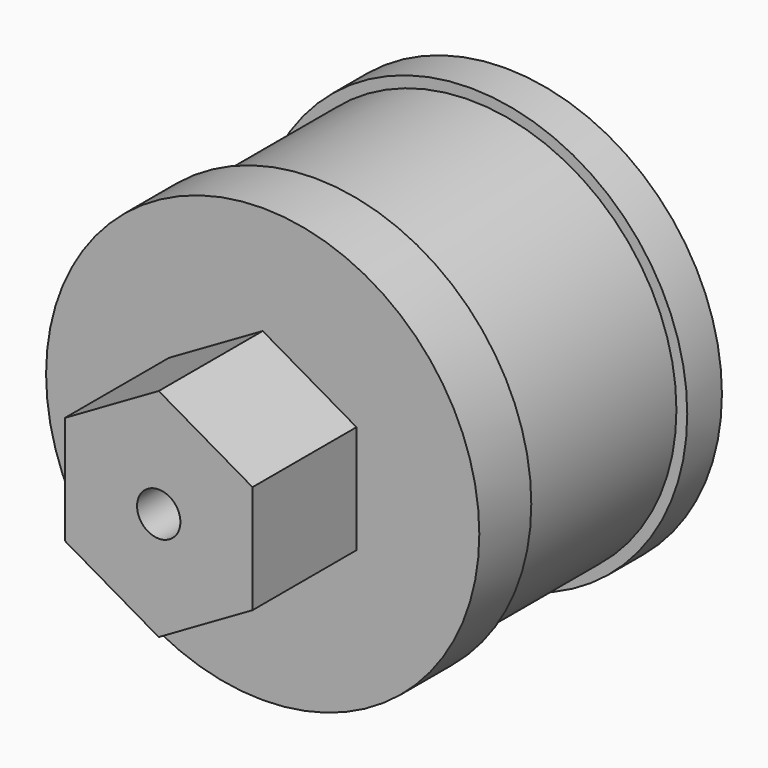
from build123d import *

# Parameters (mm, degrees)
F0_R     = 10
F0_R_2   = 9.5
F0_R_3   = 1
F1_DEPTH = 2
F2_DEPTH = 12
F3_R     = 10
F3_R_2   = 9.5
F3_R_3   = 1
F4_DEPTH = 2
F5_DEPTH = 8
F6_DEPTH = 20
F7_DEPTH = 1


with BuildPart() as f1:
    # F0 (on Front) → F1 (new body)
    with BuildSketch(Plane.XZ):
        Circle(F0_R)
        Circle(F0_R_2, mode=Mode.SUBTRACT)
        Circle(F0_R_2)
        with BuildLine():
            ThreePointArc((4.3301270189, 2.5), (4.8296291314, 1.2940952255), (5, 0))
            ThreePointArc((5, 0), (4.8296291314, -1.2940952255), (4.3301270189, -2.5))
            ThreePointArc((4.3301270189, -2.5), (2.5, -4.3301270189), (0, -5))
            ThreePointArc((0, -5), (-2.5, -4.3301270189), (-4.3301270189, -2.5))
            ThreePointArc((-4.3301270189, -2.5), (-5, 0), (-4.3301270189, 2.5))
            ThreePointArc((-4.3301270189, 2.5), (-2.5, 4.3301270189), (0, 5))
            ThreePointArc((0, 5), (2.5, 4.3301270189), (4.3301270189, 2.5))
        make_face(mode=Mode.SUBTRACT)
        with BuildLine():
            Line((0, 5), (4.3301270189, 2.5))
            ThreePointArc((4.3301270189, 2.5), (2.5, 4.3301270189), (0, 5))
        make_face()
        with BuildLine():
            Line((-4.3301270189, 2.5), (0, 5))
            ThreePointArc((0, 5), (-2.5, 4.3301270189), (-4.3301270189, 2.5))
        make_face()
        with BuildLine():
            Line((-4.3301270189, -2.5), (-4.3301270189, 2.5))
            ThreePointArc((-4.3301270189, 2.5), (-5, 0), (-4.3301270189, -2.5))
        make_face()
        with BuildLine():
            ThreePointArc((-4.3301270189, -2.5), (-2.5, -4.3301270189), (0, -5))
            Line((0, -5), (-4.3301270189, -2.5))
        make_face()
        with BuildLine():
            ThreePointArc((0, -5), (2.5, -4.3301270189), (4.3301270189, -2.5))
            Line((4.3301270189, -2.5), (0, -5))
        make_face()
        Polygon((4.3301270189, -2.5), (4.3301270189, 2.5), (0, 5), (-4.3301270189, 2.5), (-4.3301270189, -2.5), (0, -5), align=None)
        Circle(F0_R_3, mode=Mode.SUBTRACT)
        with BuildLine():
            ThreePointArc((4.3301270189, -2.5), (4.8296291314, -1.2940952255), (5, 0))
            ThreePointArc((5, 0), (4.8296291314, 1.2940952255), (4.3301270189, 2.5))
            Line((4.3301270189, 2.5), (4.3301270189, -2.5))
        make_face()
    extrude(amount=F1_DEPTH)

    # F0 (on Front) → F2 (join)
    with BuildSketch(Plane.XZ):
        Circle(F0_R_2)
        with BuildLine():
            ThreePointArc((4.3301270189, 2.5), (4.8296291314, 1.2940952255), (5, 0))
            ThreePointArc((5, 0), (4.8296291314, -1.2940952255), (4.3301270189, -2.5))
            ThreePointArc((4.3301270189, -2.5), (2.5, -4.3301270189), (0, -5))
            ThreePointArc((0, -5), (-2.5, -4.3301270189), (-4.3301270189, -2.5))
            ThreePointArc((-4.3301270189, -2.5), (-5, 0), (-4.3301270189, 2.5))
            ThreePointArc((-4.3301270189, 2.5), (-2.5, 4.3301270189), (0, 5))
            ThreePointArc((0, 5), (2.5, 4.3301270189), (4.3301270189, 2.5))
        make_face(mode=Mode.SUBTRACT)
        Polygon((4.3301270189, -2.5), (4.3301270189, 2.5), (0, 5), (-4.3301270189, 2.5), (-4.3301270189, -2.5), (0, -5), align=None)
        Circle(F0_R_3, mode=Mode.SUBTRACT)
        with BuildLine():
            Line((-4.3301270189, 2.5), (0, 5))
            ThreePointArc((0, 5), (-2.5, 4.3301270189), (-4.3301270189, 2.5))
        make_face()
        with BuildLine():
            Line((0, 5), (4.3301270189, 2.5))
            ThreePointArc((4.3301270189, 2.5), (2.5, 4.3301270189), (0, 5))
        make_face()
        with BuildLine():
            ThreePointArc((4.3301270189, -2.5), (4.8296291314, -1.2940952255), (5, 0))
            ThreePointArc((5, 0), (4.8296291314, 1.2940952255), (4.3301270189, 2.5))
            Line((4.3301270189, 2.5), (4.3301270189, -2.5))
        make_face()
        with BuildLine():
            Line((-4.3301270189, -2.5), (-4.3301270189, 2.5))
            ThreePointArc((-4.3301270189, 2.5), (-5, 0), (-4.3301270189, -2.5))
        make_face()
        with BuildLine():
            ThreePointArc((-4.3301270189, -2.5), (-2.5, -4.3301270189), (0, -5))
            Line((0, -5), (-4.3301270189, -2.5))
        make_face()
        with BuildLine():
            ThreePointArc((0, -5), (2.5, -4.3301270189), (4.3301270189, -2.5))
            Line((4.3301270189, -2.5), (0, -5))
        make_face()
    extrude(amount=F2_DEPTH)



with BuildPart() as f4:
    # F3 (on face) → F4 (new body)
    with BuildSketch(Plane.XZ.offset(12)):
        Circle(F3_R)
        Circle(F3_R_2, mode=Mode.SUBTRACT)
        Circle(F3_R_2)
        with BuildLine():
            ThreePointArc((4.3301270189, 2.5), (4.8296291314, 1.2940952255), (5, 0))
            ThreePointArc((5, 0), (4.8296291314, -1.2940952255), (4.3301270189, -2.5))
            ThreePointArc((4.3301270189, -2.5), (2.5, -4.3301270189), (0, -5))
            ThreePointArc((0, -5), (-2.5, -4.3301270189), (-4.3301270189, -2.5))
            ThreePointArc((-4.3301270189, -2.5), (-5, 0), (-4.3301270189, 2.5))
            ThreePointArc((-4.3301270189, 2.5), (-2.5, 4.3301270189), (0, 5))
            ThreePointArc((0, 5), (2.5, 4.3301270189), (4.3301270189, 2.5))
        make_face(mode=Mode.SUBTRACT)
        with BuildLine():
            Line((-4.3301270189, 2.5), (0, 5))
            ThreePointArc((0, 5), (-2.5, 4.3301270189), (-4.3301270189, 2.5))
        make_face()
        with BuildLine():
            Line((-4.3301270189, -2.5), (-4.3301270189, 2.5))
            ThreePointArc((-4.3301270189, 2.5), (-5, 0), (-4.3301270189, -2.5))
        make_face()
        with BuildLine():
            Line((0, 5), (4.3301270189, 2.5))
            ThreePointArc((4.3301270189, 2.5), (2.5, 4.3301270189), (0, 5))
        make_face()
        Polygon((4.3301270189, -2.5), (4.3301270189, 2.5), (0, 5), (-4.3301270189, 2.5), (-4.3301270189, -2.5), (0, -5), align=None)
        Circle(F3_R_3, mode=Mode.SUBTRACT)
        with BuildLine():
            ThreePointArc((4.3301270189, -2.5), (4.8296291314, -1.2940952255), (5, 0))
            ThreePointArc((5, 0), (4.8296291314, 1.2940952255), (4.3301270189, 2.5))
            Line((4.3301270189, 2.5), (4.3301270189, -2.5))
        make_face()
        with BuildLine():
            ThreePointArc((0, -5), (2.5, -4.3301270189), (4.3301270189, -2.5))
            Line((4.3301270189, -2.5), (0, -5))
        make_face()
        with BuildLine():
            ThreePointArc((-4.3301270189, -2.5), (-2.5, -4.3301270189), (0, -5))
            Line((0, -5), (-4.3301270189, -2.5))
        make_face()
    extrude(amount=F4_DEPTH)


with BuildPart() as f1_1:
    add(f1.part)

    add(f4.part)  # F5 merges F4
    # F3 (on face) → F5 (join)
    with BuildSketch(Plane.XZ.offset(12)):
        Polygon((4.3301270189, -2.5), (4.3301270189, 2.5), (0, 5), (-4.3301270189, 2.5), (-4.3301270189, -2.5), (0, -5), align=None)
        Circle(F3_R_3, mode=Mode.SUBTRACT)
    extrude(amount=F5_DEPTH)

    # F3 (on face) → F6 (cut)
    with BuildSketch(Plane.XZ.offset(12)):
        Circle(F3_R_3)
    extrude(amount=F6_DEPTH, mode=Mode.SUBTRACT)

    # F3 (on face) → F7 (join)
    with BuildSketch(Plane.XZ.offset(12)):
        Circle(F3_R)
        Circle(F3_R_2, mode=Mode.SUBTRACT)
    extrude(amount=-F7_DEPTH)


solid = f1_1.part
